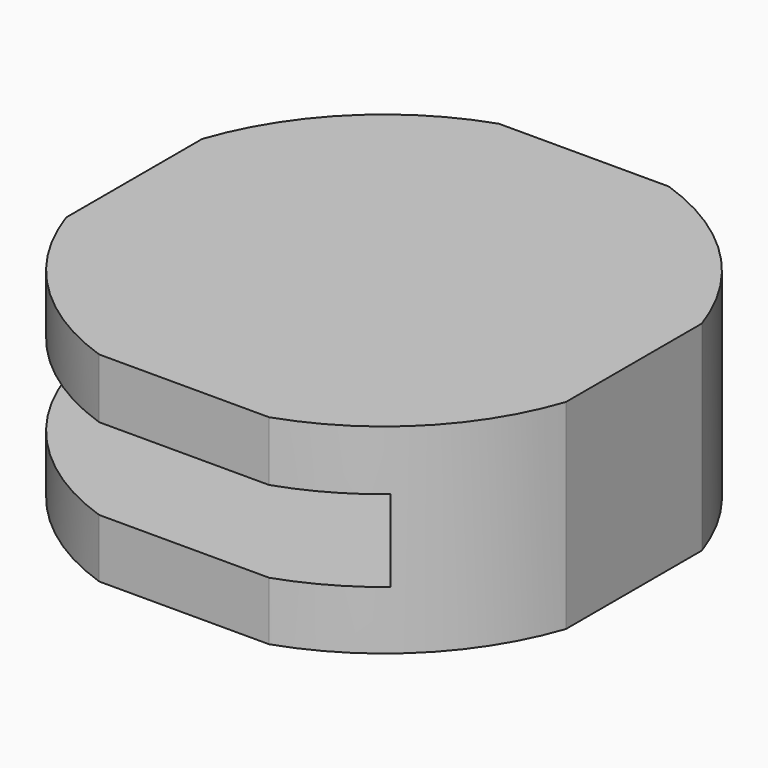
from build123d import *

# Parameters (mm, degrees)
F1_DEPTH = 50.8
F2_W     = 106.4794771373
F2_H     = 20.7544723526
F3_DEPTH = 85.852


with BuildPart() as f1:
    # F0 (on Top) → F1 (new body)
    with BuildSketch(Plane.XY):
        with BuildLine():
            Line((63.5, -21.5948767427), (63.5, 21.5948767427))
            ThreePointArc((63.5, 21.5948767427), (47.4267261232, 47.4267261232), (21.5948767427, 63.5))
            Line((21.5948767427, 63.5), (-21.5948767427, 63.5))
            ThreePointArc((-21.5948767427, 63.5), (-47.4267261232, 47.4267261232), (-63.5, 21.5948767427))
            Line((-63.5, 21.5948767427), (-63.5, -21.5948767427))
            ThreePointArc((-63.5, -21.5948767427), (-47.4267261232, -47.4267261232), (-21.5948767427, -63.5))
            Line((-21.5948767427, -63.5), (21.5948767427, -63.5))
            ThreePointArc((21.5948767427, -63.5), (47.4267261232, -47.4267261232), (63.5, -21.5948767427))
        make_face()
    extrude(amount=F1_DEPTH)

    # F2 (on Front) → F3 (cut, symmetric)
    with BuildSketch(Plane.XZ):
        with Locations((-10.3772375733, 25.2663153224)):
            Rectangle(F2_W, F2_H)
    extrude(amount=F3_DEPTH, both=True, mode=Mode.SUBTRACT)


solid = f1.part
